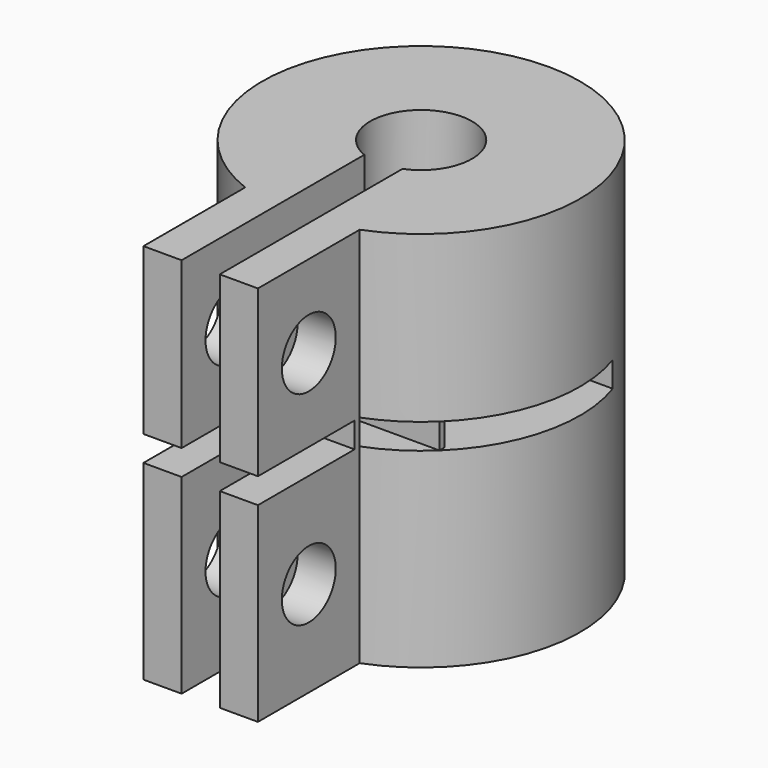
from build123d import *

# Parameters (mm, degrees)
F0_R      = 12.5
F1_DEPTH  = 30
F3_DEPTH  = 30.001
F4_R      = 4
F5_DEPTH  = 15
F6_W      = 3
F6_H      = 12.5
F7_DEPTH  = 30.001
F9_DEPTH  = 30
F10_W     = 20.1029244214
F10_H     = 2
F10_W_2   = 3
F10_W_3   = 20.1884878725
F11_DEPTH = 25.7
F12_R     = 2.65
F13_DEPTH = 17.001
F14_W     = 3
F14_H     = 0.5
F15_DEPTH = 2
F16_W     = 7.1528945421
F16_H     = 0.5
F17_DEPTH = 2


with BuildPart() as f1:
    # F0 (on Top) → F1 (new body)
    with BuildSketch(Plane.XY):
        Circle(F0_R)
    extrude(amount=F1_DEPTH)

    # F2 (on face) → F3 (cut, through all)
    with BuildSketch(Plane.XY.offset(30)):
        with BuildLine():
            ThreePointArc((-2.1028398647, 1.3520593565), (-0.7045922006, -2.3986558383), (2.5, 0))
            ThreePointArc((2.5, 0), (2.3986558383, 0.7045922006), (2.1028398647, 1.3520593565))
            Line((2.1028398647, 1.3520593565), (-2.1028398647, 1.3520593565))
        make_face()
    extrude(amount=-F3_DEPTH, mode=Mode.SUBTRACT)

    # F4 (on face) → F5 (cut)
    with BuildSketch(Plane.XY.offset(30)):
        Circle(F4_R)
        with BuildLine():
            ThreePointArc((2.1028398647, 1.3520593565), (2.3986558383, 0.7045922006), (2.5, 0))
            ThreePointArc((2.5, 0), (-0.7045922006, -2.3986558383), (-2.1028398647, 1.3520593565))
            Line((-2.1028398647, 1.3520593565), (2.1028398647, 1.3520593565))
        make_face(mode=Mode.SUBTRACT)
    extrude(amount=-F5_DEPTH, mode=Mode.SUBTRACT)

    # F6 (on face) → F7 (cut, through all)
    with BuildSketch(Plane.XY.offset(30)):
        with Locations((0, -6.25)):
            Rectangle(F6_W, F6_H)
    extrude(amount=-F7_DEPTH, mode=Mode.SUBTRACT)

    # F8 (on face) → F9 (join, through all)
    with BuildSketch(Plane.XY.offset(30)):
        with BuildLine():
            Line((-4.5, -21.6619037897), (-1.5, -21.6619037897))
            Line((-1.5, -21.6619037897), (-1.5, -12.409673646))
            ThreePointArc((-1.5, -12.409673646), (-3.0232085504, -12.1288997877), (-4.5, -11.6619037897))
            Line((-4.5, -11.6619037897), (-4.5, -21.6619037897))
        make_face()
        with BuildLine():
            Line((4.5, -21.6619037897), (4.5, -11.6619037897))
            ThreePointArc((4.5, -11.6619037897), (3.0232085504, -12.1288997877), (1.5, -12.409673646))
            Line((1.5, -12.409673646), (1.5, -21.6619037897))
            Line((1.5, -21.6619037897), (4.5, -21.6619037897))
        make_face()
    extrude(amount=-F9_DEPTH)

    # F10 (on face) → F11 (cut, symmetric)
    with BuildSketch(Plane.XZ.offset(21.6619037897)):
        with Locations((-8.5514622107, 16)):
            Rectangle(F10_W, F10_H)
        with Locations((3, 16)):
            Rectangle(F10_W_2, F10_H)
        with Locations((14.5942439362, 16)):
            Rectangle(F10_W_3, F10_H)
    extrude(amount=F11_DEPTH, both=True, mode=Mode.SUBTRACT)

    # F12 (on face) → F13 (cut, through all)
    with BuildSketch(Plane(origin=(-4.5, 0, 0), x_dir=(0, -1, 0), z_dir=(-1, 0, 0))):
        with Locations((16.6619037897, 23.5)):
            Circle(F12_R)
        with Locations((16.6619037897, 7.5)):
            Circle(F12_R)
    extrude(amount=-F13_DEPTH, mode=Mode.SUBTRACT)

    # F14 (on face) → F15 (join, through all)
    with BuildSketch(Plane.XY.offset(15)):
        with Locations((-3, -11.9119037897)):
            Rectangle(F14_W, F14_H)
        with Locations((3, -11.9119037897)):
            Rectangle(F14_W, F14_H)
    extrude(amount=F15_DEPTH)

    # F16 (on face) → F17 (join, through all)
    with BuildSketch(Plane.XY.offset(15)):
        with Locations((5.0764472711, -8.7709431903)):
            Rectangle(F16_W, F16_H)
        with Locations((-5.0764472711, -8.7709431903)):
            Rectangle(F16_W, F16_H)
    extrude(amount=F17_DEPTH)


solid = f1.part
